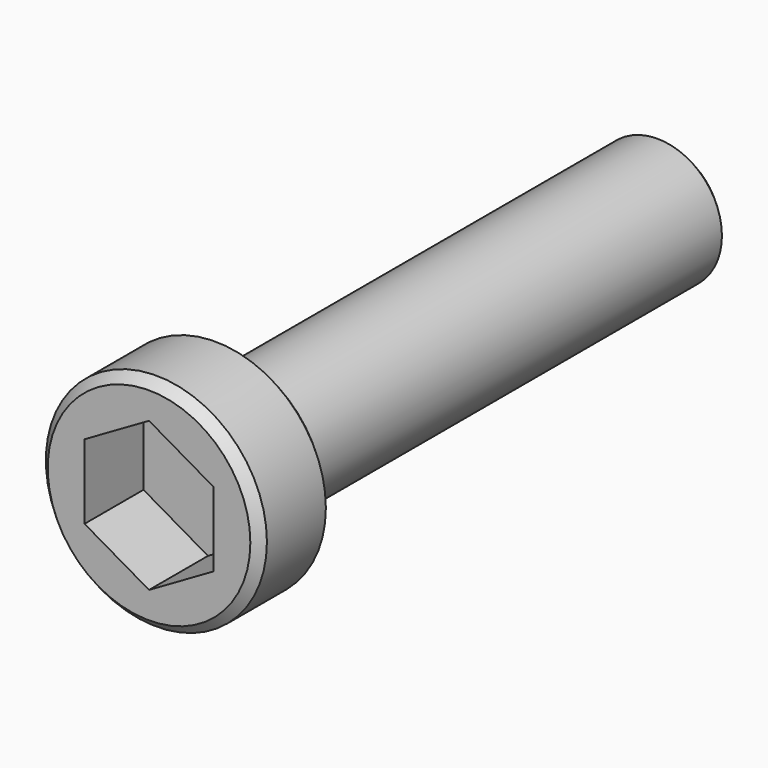
from build123d import *

# Parameters (mm, degrees)
F0_R     = 3.5
F1_DEPTH = 30
F2_R     = 6
F3_DEPTH = 5
F4_SIZE  = 0.5
F6_DEPTH = 4


with BuildPart() as f1:
    # F0 (on Front) → F1 (new body)
    with BuildSketch(Plane.XZ):
        Circle(F0_R)
    extrude(amount=-F1_DEPTH)

    # F2 (on face) → F3 (join)
    with BuildSketch(Plane.XZ):
        Circle(F2_R)
    extrude(amount=F3_DEPTH)

    # F4
    f4_edges = [f1.edges().sort_by_distance(p)[0] for p in [
        (-6, -5, 0),
        (-6, 0, 0),
        (-3.5, 30, 0),
        (-3.5, 0, 0),
    ]]
    chamfer(f4_edges, length=F4_SIZE)

    # F5 (on face) → F6 (cut)
    with BuildSketch(Plane.XZ.offset(5)):
        Polygon((-3.5, 2.020726), (-3.5, -2.020726), (0, -4.041452), (3.5, -2.020726), (3.5, 2.020726), (0, 4.041452), align=None)
    extrude(amount=-F6_DEPTH, mode=Mode.SUBTRACT)


solid = f1.part
